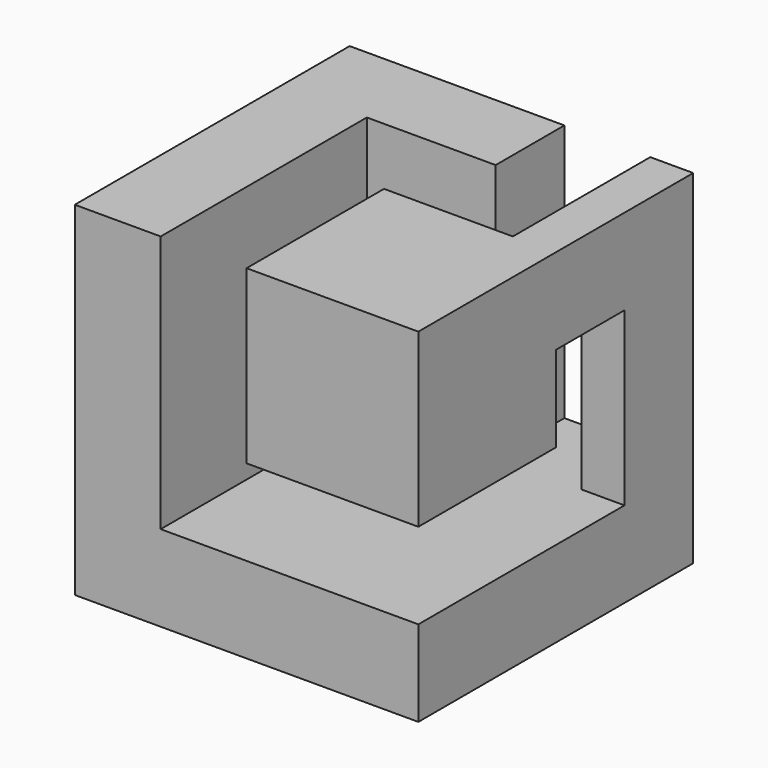
from build123d import *

# Parameters (mm, degrees)
F0_W     = 50.8
F0_H     = 50.8
F1_DEPTH = 50.8
F2_W     = 38.1
F2_H     = 38.1
F3_DEPTH = 38.1
F4_W     = 50.8
F4_H     = 12.7
F5_DEPTH = 6.35
F6_W     = 25.4
F6_H     = 25.4
F7_DEPTH = 25.4
F8_W     = 6.35
F8_H     = 38.1
F9_DEPTH = 12.7


with BuildPart() as f1:
    # F0 (on Top) → F1 (new body)
    with BuildSketch(Plane.XY):
        with Locations((-25.4, 25.4)):
            Rectangle(F0_W, F0_H)
    extrude(amount=F1_DEPTH)

    # F2 (on face) → F3 (cut)
    with BuildSketch(Plane.XY.offset(50.8)):
        with Locations((-19.05, 19.05)):
            Rectangle(F2_W, F2_H)
    extrude(amount=-F3_DEPTH, mode=Mode.SUBTRACT)

    # F4 (on face) → F5 (join)
    with BuildSketch(Plane.YZ):
        with Locations((25.4, 44.45)):
            Rectangle(F4_W, F4_H)
    extrude(amount=-F5_DEPTH)

    # F6 (on face) → F7 (join)
    with BuildSketch(Plane.YZ):
        with Locations((12.7, 38.1)):
            Rectangle(F6_W, F6_H)
    extrude(amount=-F7_DEPTH)

    # F8 (on face) → F9 (cut)
    with BuildSketch(Plane(origin=(0, 50.8, 0), x_dir=(-1, 0, 0), z_dir=(0, 1, 0))):
        with Locations((9.525, 31.75)):
            Rectangle(F8_W, F8_H)
        with Locations((15.875, 31.75)):
            Rectangle(F8_W, F8_H)
    extrude(amount=-F9_DEPTH, mode=Mode.SUBTRACT)


solid = f1.part
